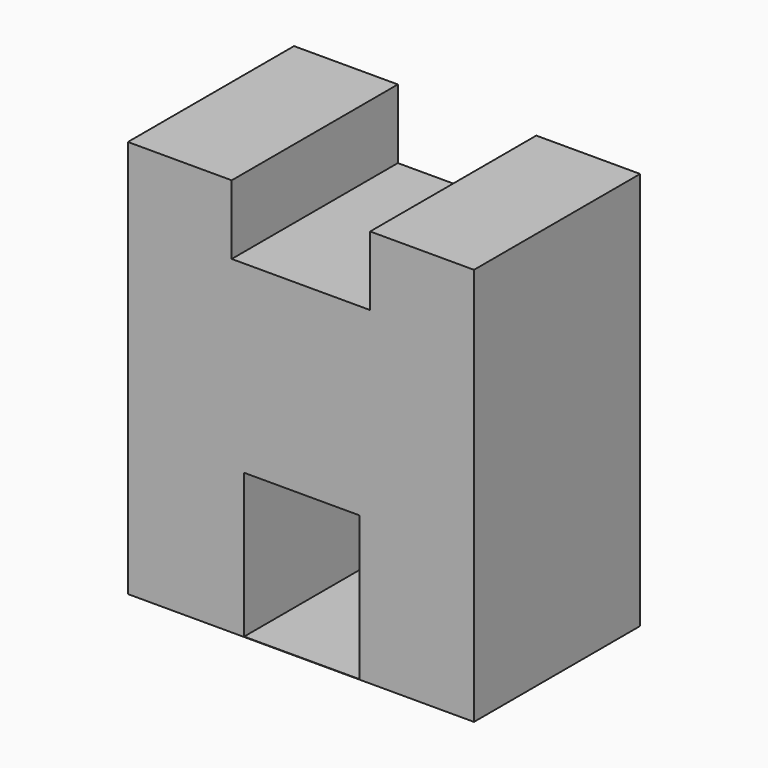
from build123d import *

# Parameters (mm, degrees)
F0_W     = 20
F0_H     = 24.55847
F0_W_2   = 18
F0_H_2   = 12
F1_DEPTH = 36
F2_W     = 20
F2_H     = 25
F3_DEPTH = 36.001


with BuildPart() as f1:
    # F0 (on Front) → F1 (new body)
    with BuildSketch(Plane.XZ):
        Polygon((30, -28.5), (30, 28.5), (12, 28.5), (-12, 28.5), (-30, 28.5), (-30, -28.5), (-10, -28.5), (-10, -3.94153), (10, -3.94153), (10, -28.5), align=None)
        with Locations((0, -16.220765)):
            Rectangle(F0_W, F0_H)
        with Locations((21, 34.5)):
            Rectangle(F0_W_2, F0_H_2)
        with Locations((-21, 34.5)):
            Rectangle(F0_W_2, F0_H_2)
    extrude(amount=F1_DEPTH)

    # F2 (on face) → F3 (cut, through all)
    with BuildSketch(Plane.XZ.offset(36)):
        with Locations((0.15218, -15.931246)):
            Rectangle(F2_W, F2_H)
    extrude(amount=-F3_DEPTH, mode=Mode.SUBTRACT)


solid = f1.part
